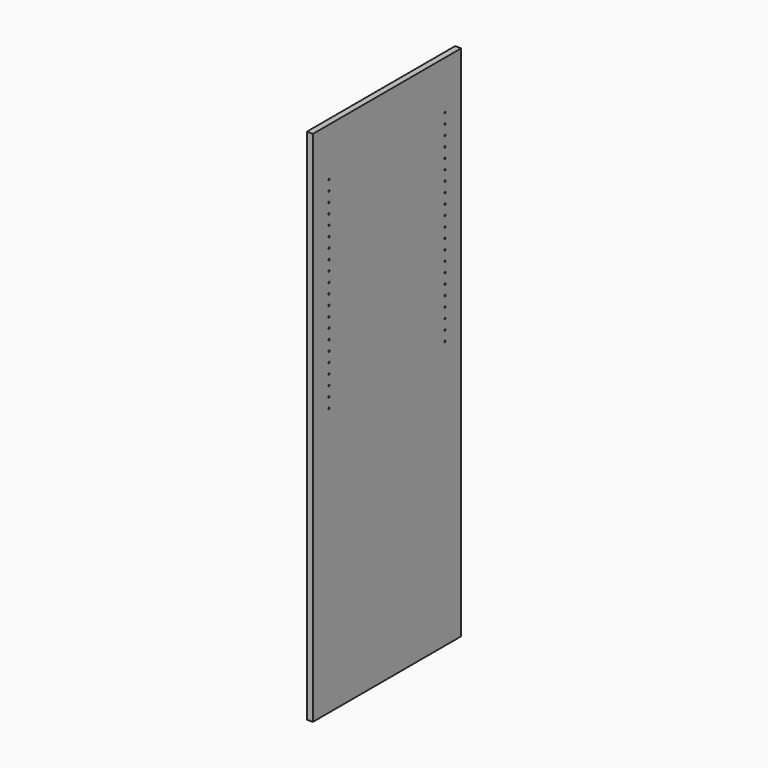
from build123d import *

# Parameters (mm, degrees)
F0_W     = 584.2
F0_H     = 1631.95
F1_DEPTH = 19.05
F3_D     = 5.0038
F3_DEPTH = 14.224
F3_TIP   = 1.5032931827


with BuildPart() as f1:
    # F0 (on Right) → F1 (new body)
    with BuildSketch(Plane.YZ):
        Rectangle(F0_W, F0_H)
    extrude(amount=F1_DEPTH)

    # F3
    with Locations(Plane.YZ.offset(19.05)):
        with Locations((-228.6, 663.575), (-228.6, 631.825), (-228.6, 600.075), (-228.6, 568.325), (-228.6, 536.575), (-228.6, 504.825), (-228.6, 473.075), (-228.6, 441.325), (-228.6, 409.575), (-228.6, 377.825), (-228.6, 346.075), (-228.6, 314.325), (-228.6, 282.575), (-228.6, 250.825), (-228.6, 219.075), (-228.6, 187.325), (-228.6, 155.575), (-228.6, 123.825), (-228.6, 92.075), (-228.6, 60.325), (-228.6, 28.575), (228.6, 663.575), (228.6, 631.825), (228.6, 600.075), (228.6, 568.325), (228.6, 536.575), (228.6, 504.825), (228.6, 473.075), (228.6, 441.325), (228.6, 409.575), (228.6, 377.825), (228.6, 346.075), (228.6, 314.325), (228.6, 282.575), (228.6, 250.825), (228.6, 219.075), (228.6, 187.325), (228.6, 155.575), (228.6, 123.825), (228.6, 92.075), (228.6, 60.325), (228.6, 28.575)):
            Hole(F3_D / 2, depth=F3_DEPTH)
            with Locations((0, 0, -(F3_DEPTH + F3_TIP / 2))):  # 118° drill point
                Cone(0, F3_D / 2, F3_TIP, mode=Mode.SUBTRACT)


solid = f1.part
